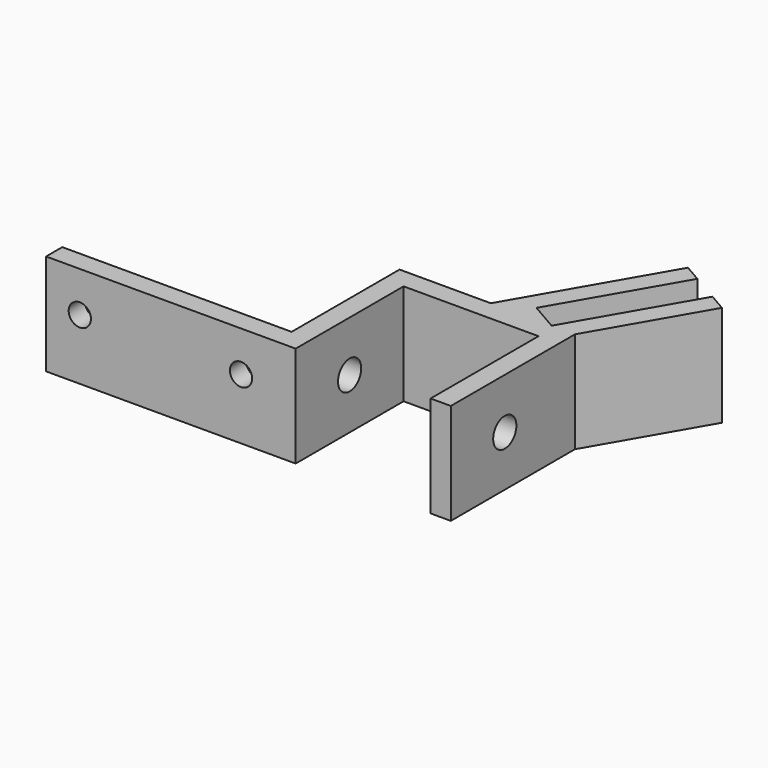
from build123d import *

# Parameters (mm, degrees)
F1_DEPTH = 15
F2_DEPTH = 3
F3_R     = 1.65
F4_DEPTH = 5
F5_R     = 2.15
F6_DEPTH = 30


with BuildPart() as f1:
    # F0 (on Top) → F1 (new body)
    with BuildSketch(Plane.XY):
        Polygon((-53.4123483514, 9.8549427117), (-53.4123483514, 6.8549427117), (-16.4123483514, 6.8549427117), (-16.4123483514, 26.8549427117), (3.5876516486, 26.8549427117), (3.5876516486, 6.8549427117), (6.5876516486, 6.8549427117), (6.5876516486, 29.8549427117), (15.7216262448, 45.6754507873), (13.1235500334, 47.1754507873), (3.1235500334, 29.8549427117), (-1.0333719047, 32.2549427117), (8.9666280953, 49.5754507873), (6.3685518839, 51.0754507873), (-5.8831141659, 29.8549427117), (-19.4123483514, 29.8549427117), (-19.4123483514, 9.8549427117), align=None)
    extrude(amount=F1_DEPTH)

    # F0 (on Top) → F2 (join)
    with BuildSketch(Plane.XY):
        with BuildLine():
            add(Edge.make_bspline(
                [(-19.4123483514, 29.8549427117), (-25.070528026, 24.2659085839), (-35.6987359263, 13.7675822513), (-47.7683028951, 11.1016175788), (-53.4123483514, 9.8549427117)],
                knots=[0, 0, 0, 0, 0.5323738233, 1, 1, 1, 1], degree=3))
            Line((-53.4123483514, 9.8549427117), (-19.4123483514, 9.8549427117))
            Line((-19.4123483514, 9.8549427117), (-19.4123483514, 29.8549427117))
        make_face()
    extrude(amount=F2_DEPTH)

    # F3 (on face) → F4 (cut)
    with BuildSketch(Plane.XZ.offset(-6.8549427117)):
        with Locations((-48.4123483514, 9)):
            Circle(F3_R)
        with Locations((-24.5123483514, 9)):
            Circle(F3_R)
    extrude(amount=-F4_DEPTH, mode=Mode.SUBTRACT)

    # F5 (on face) → F6 (cut)
    with BuildSketch(Plane.YZ.offset(6.5876516486)):
        with Locations((16.8549427117, 7.5)):
            Circle(F5_R)
    extrude(amount=-F6_DEPTH, mode=Mode.SUBTRACT)


solid = f1.part
